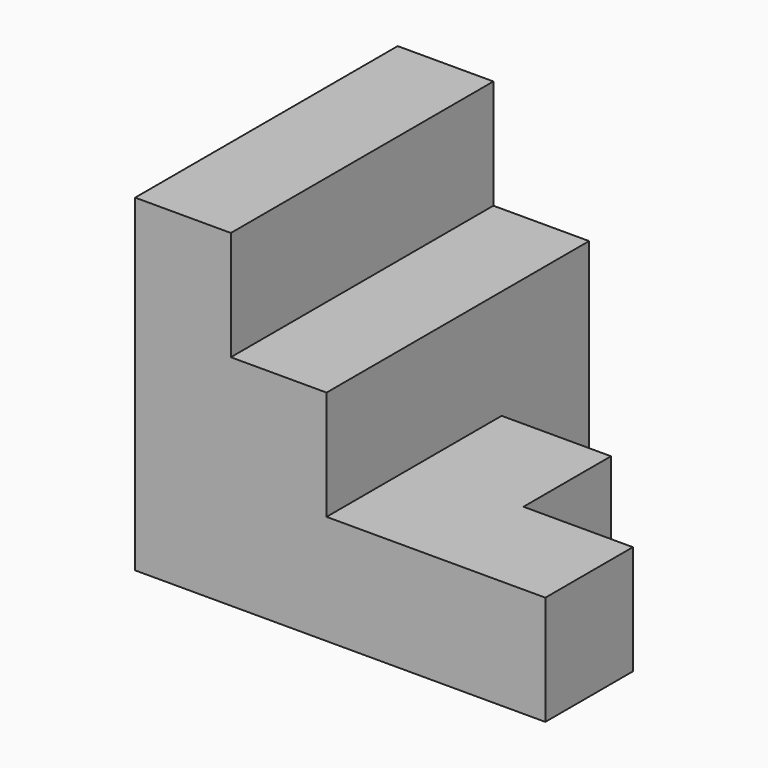
from build123d import *

# Parameters (mm, degrees)
F0_W     = 30
F0_H     = 24
F1_DEPTH = 24
F3_DEPTH = 16
F5_DEPTH = 8
F6_DEPTH = 16
F7_W     = 8
F7_H     = 8
F8_DEPTH = 24
F9_DEPTH = 24


with BuildPart() as f1:
    # F0 (on Top) → F1 (new body)
    with BuildSketch(Plane.XY):
        with Locations((15, 12)):
            Rectangle(F0_W, F0_H)
    extrude(amount=F1_DEPTH)

    # F2 (on face) → F3 (cut)
    with BuildSketch(Plane.XY.offset(24)):
        Polygon((14, 0), (30, 0), (30, 8), (22, 8), (22, 16), (14, 16), align=None)
    extrude(amount=-F3_DEPTH, mode=Mode.SUBTRACT)

    # F4 (on face) → F5 (cut)
    with BuildSketch(Plane.XY.offset(24)):
        Polygon((14, 24), (7, 24), (7, 0), (14, 0), (14, 16), align=None)
    extrude(amount=-F5_DEPTH, mode=Mode.SUBTRACT)

    # F6 (add): a face of the model
    f6_faces = [f1.faces().sort_by_distance(p)[0] for p in [
        (23.3333333333, 17.3333333333, 24),
    ]]
    extrude(f6_faces, amount=-F6_DEPTH)

    # F7 (on face) → F8 (cut)
    with BuildSketch(Plane.XY.offset(24)):
        with Locations((18, 20)):
            Rectangle(F7_W, F7_H)
    extrude(amount=-F8_DEPTH, mode=Mode.SUBTRACT)

    # F9 (cut): a face of the model
    f9_faces = [f1.faces().sort_by_distance(p)[0] for p in [
        (26, 16, 24),
    ]]
    extrude(f9_faces, amount=-F9_DEPTH, mode=Mode.SUBTRACT)


solid = f1.part
